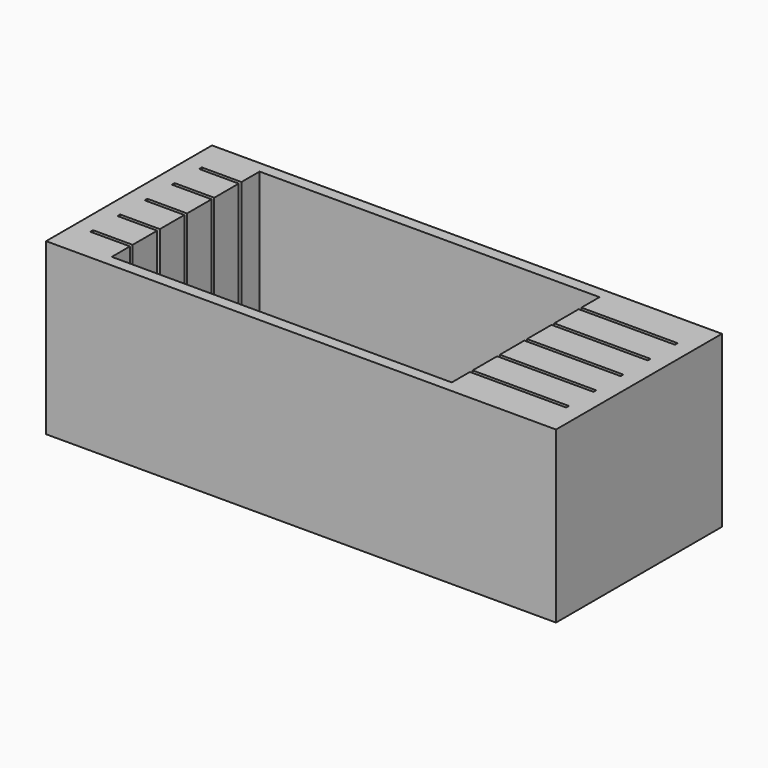
from build123d import *

# Parameters (mm, degrees)
F0_W     = 45
F0_H     = 16.3
F1_DEPTH = 15
F3_DEPTH = 12
F4_W     = 45
F4_H     = 15
F5_DEPTH = 1
F6_W     = 45
F6_H     = 15
F7_DEPTH = 1


with BuildPart() as f1:
    # F0 (on Top) → F1 (new body)
    with BuildSketch(Plane.XY):
        Rectangle(F0_W, F0_H)
    extrude(amount=F1_DEPTH)

    # F2 (on face) → F3 (cut)
    with BuildSketch(Plane.XY.offset(15)):
        Polygon((-21, -5.85), (-21, -6.15), (-17.5, -6.15), (-17.5, -8.15), (12.5, -8.15), (12.5, -6.15), (21, -6.15), (21, -5.85), (12.5, -5.85), (12.5, -3.15), (21, -3.15), (21, -2.85), (12.5, -2.85), (12.5, -0.15), (21, -0.15), (21, 0.15), (12.5, 0.15), (12.5, 2.85), (21, 2.85), (21, 3.15), (12.5, 3.15), (12.5, 5.85), (21, 5.85), (21, 6.15), (12.5, 6.15), (12.5, 8.15), (-17.5, 8.15), (-17.5, 6.15), (-21, 6.15), (-21, 5.85), (-17.5, 5.85), (-17.5, 3.15), (-21, 3.15), (-21, 2.85), (-17.5, 2.85), (-17.5, 0.15), (-21, 0.15), (-21, -0.15), (-17.5, -0.15), (-17.5, -2.85), (-21, -2.85), (-21, -3.15), (-17.5, -3.15), (-17.5, -5.85), align=None)
    extrude(amount=-F3_DEPTH, mode=Mode.SUBTRACT)

    # F4 (on face) → F5 (join)
    with BuildSketch(Plane.XZ.offset(8.15)):
        with Locations((0, 7.5)):
            Rectangle(F4_W, F4_H)
    extrude(amount=F5_DEPTH)

    # F6 (on face) → F7 (join)
    with BuildSketch(Plane(origin=(0, 8.15, 0), x_dir=(-1, 0, 0), z_dir=(0, 1, 0))):
        with Locations((0, 7.5)):
            Rectangle(F6_W, F6_H)
    extrude(amount=F7_DEPTH)


solid = f1.part
